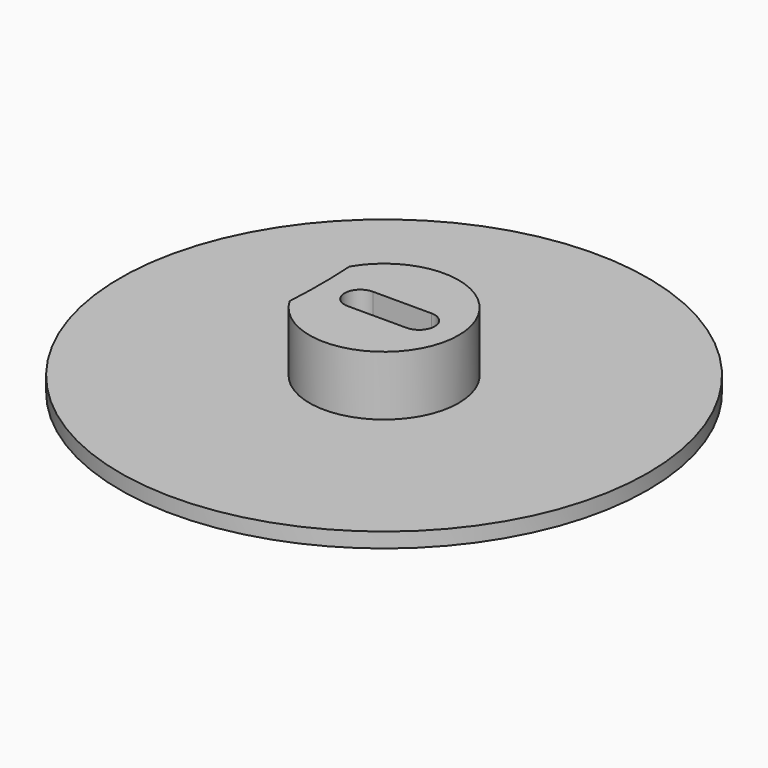
from build123d import *

# Parameters (mm, degrees)
SKETCH_R      = 35.375
PAD_DEPTH     = 2
SKETCH001_R   = 9.4
PAD001_DEPTH  = 2
PAD002_DEPTH  = 10
SKETCH003_R   = 9.4
SKETCH003_R_2 = 6.35
PAD003_DEPTH  = 5


with BuildPart() as body:
    # Sketch (on XY_Plane of Origin) → Pad (new body)
    with BuildSketch(Plane.XY):
        Circle(SKETCH_R)
    extrude(amount=PAD_DEPTH)

    # Sketch001 (on Face3 of Pad) → Pad001 (join)
    with BuildSketch(Plane.XY.offset(2)):
        Circle(SKETCH001_R)
    extrude(amount=PAD001_DEPTH)


with BuildPart() as edge_block:
    # Sketch002 (on XY_Plane001 of Origin002) → Pad002 (new body)
    with BuildSketch(Plane.XY):
        with BuildLine():
            ThreePointArc((-8.653315, -5.012), (10, 0), (-8.653315, 5.012))
            ThreePointArc((-8.653315, -5.012), (-8.5, 0), (-8.653315, 5.012))
        make_face()
        with BuildLine():
            ThreePointArc((-3.19054, 2.1), (-5.29054, 0), (-3.19054, -2.1))
            Line((-3.19054, -2.1), (4.69054, -2.1))
            ThreePointArc((4.69054, -2.1), (6.79054, 0), (4.69054, 2.1))
            Line((-3.19054, 2.1), (4.69054, 2.1))
        make_face(mode=Mode.SUBTRACT)
    extrude(amount=PAD002_DEPTH)


with BuildPart() as centering_washer:
    # Sketch003 (on XY_Plane002 of Origin004) → Pad003 (new body)
    with BuildSketch(Plane.XY):
        Circle(SKETCH003_R)
        Circle(SKETCH003_R_2, mode=Mode.SUBTRACT)
    extrude(amount=PAD003_DEPTH)


solid = Compound([body.part, edge_block.part, centering_washer.part])
